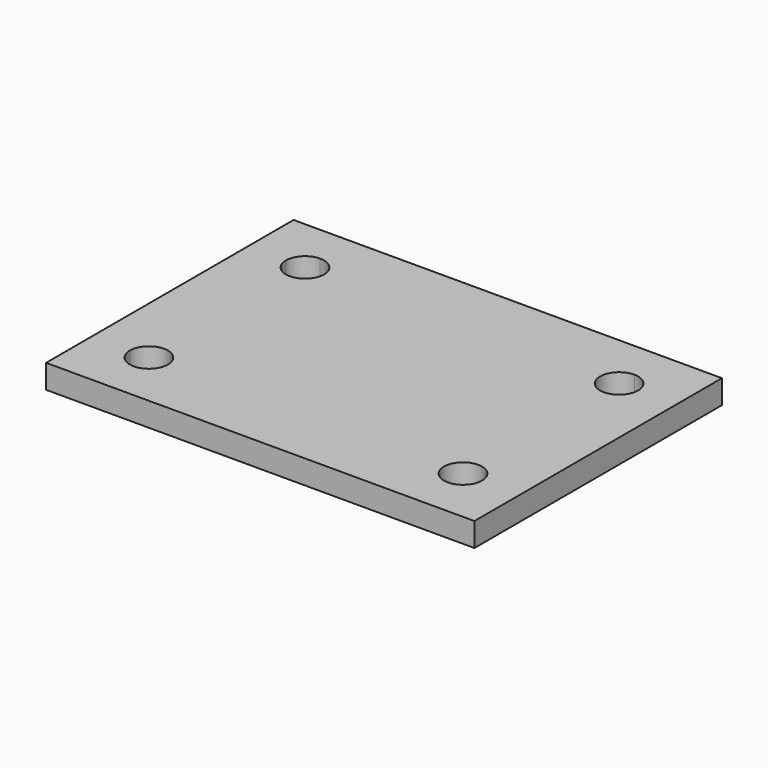
from build123d import *

# Parameters (mm, degrees)
F0_W     = 57.15
F0_H     = 41.275
F1_DEPTH = 3.175
F3_DEPTH = 6.35


with BuildPart() as f1:
    # F0 (on Top) → F1 (new body)
    with BuildSketch(Plane.XY):
        with Locations((4.384089, -17.709465)):
            Rectangle(F0_W, F0_H)
    extrude(amount=F1_DEPTH)

    # F2 (on face) → F3 (cut)
    with BuildSketch(Plane.XY.offset(3.175)):
        with BuildLine():
            Line((-16.570911, -4.691965), (-16.570911, -2.151965))
            ThreePointArc((-16.570911, -2.151965), (-18.366963, -2.895914), (-19.110911, -4.691965))
            Line((-19.110911, -4.691965), (-16.570911, -4.691965))
        make_face()
        with BuildLine():
            ThreePointArc((-14.030911, -4.691965), (-14.77486, -2.895914), (-16.570911, -2.151965))
            Line((-16.570911, -2.151965), (-16.570911, -4.691965))
            Line((-16.570911, -4.691965), (-19.110911, -4.691965))
            ThreePointArc((-19.110911, -4.691965), (-16.570911, -7.231965), (-14.030911, -4.691965))
        make_face()
        with BuildLine():
            ThreePointArc((27.879089, -4.691965), (27.13514, -2.895914), (25.339089, -2.151965))
            Line((25.339089, -2.151965), (25.339089, -4.691965))
            Line((25.339089, -4.691965), (27.879089, -4.691965))
        make_face()
        with BuildLine():
            Line((25.339089, -4.691965), (25.339089, -2.151965))
            ThreePointArc((25.339089, -2.151965), (23.543037, -6.488016), (27.879089, -4.691965))
            Line((27.879089, -4.691965), (25.339089, -4.691965))
        make_face()
        with BuildLine():
            Line((25.339089, -30.726965), (27.879089, -30.726965))
            ThreePointArc((27.879089, -30.726965), (23.543037, -28.930914), (25.339089, -33.266965))
            Line((25.339089, -33.266965), (25.339089, -30.726965))
        make_face()
        with BuildLine():
            ThreePointArc((25.339089, -33.266965), (27.13514, -32.523016), (27.879089, -30.726965))
            Line((27.879089, -30.726965), (25.339089, -30.726965))
            Line((25.339089, -30.726965), (25.339089, -33.266965))
        make_face()
        with BuildLine():
            Line((-16.570911, -30.726965), (-19.110911, -30.726965))
            ThreePointArc((-19.110911, -30.726965), (-18.366963, -32.523016), (-16.570911, -33.266965))
            Line((-16.570911, -33.266965), (-16.570911, -30.726965))
        make_face()
        with BuildLine():
            ThreePointArc((-14.030911, -30.726965), (-16.570911, -28.186965), (-19.110911, -30.726965))
            Line((-19.110911, -30.726965), (-16.570911, -30.726965))
            Line((-16.570911, -30.726965), (-16.570911, -33.266965))
            ThreePointArc((-16.570911, -33.266965), (-14.77486, -32.523016), (-14.030911, -30.726965))
        make_face()
    extrude(amount=-F3_DEPTH, mode=Mode.SUBTRACT)


solid = f1.part
